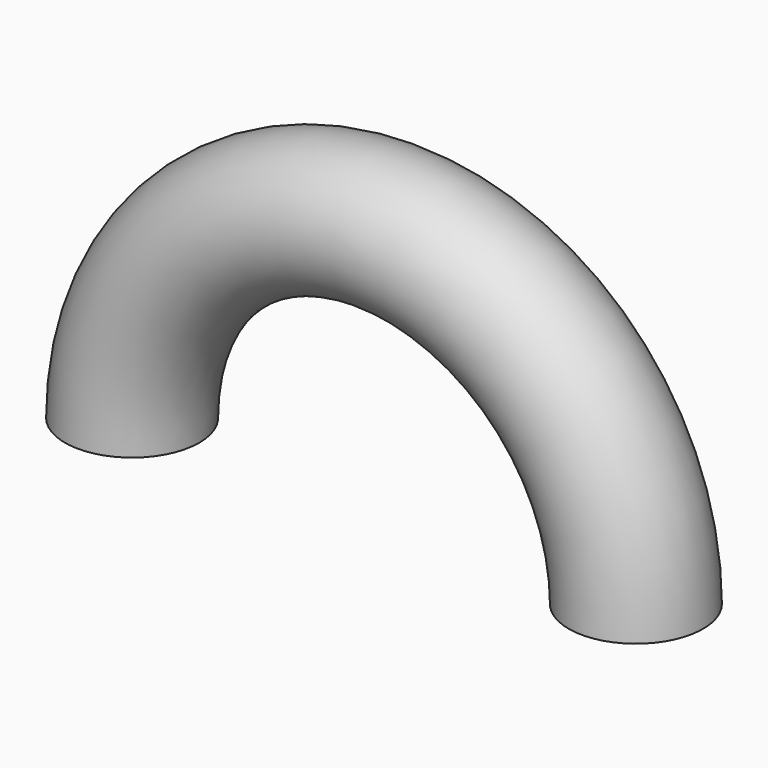
from build123d import *

# Parameters (mm, degrees)
F0_R   = 10.16
F0_R_2 = 8.255


with BuildPart() as f2:
    # F2: sweep along a path in F1
    with BuildLine(Plane.XZ) as f2_path:
        ThreePointArc((76.20059, 0), (38.100295, 38.100295), (0, 0))
    # F0 (on Top) → F2 (sweep)
    with BuildSketch(Plane.XY):
        Circle(F0_R)
        Circle(F0_R_2, mode=Mode.SUBTRACT)
    sweep(path=f2_path.line)


solid = f2.part
